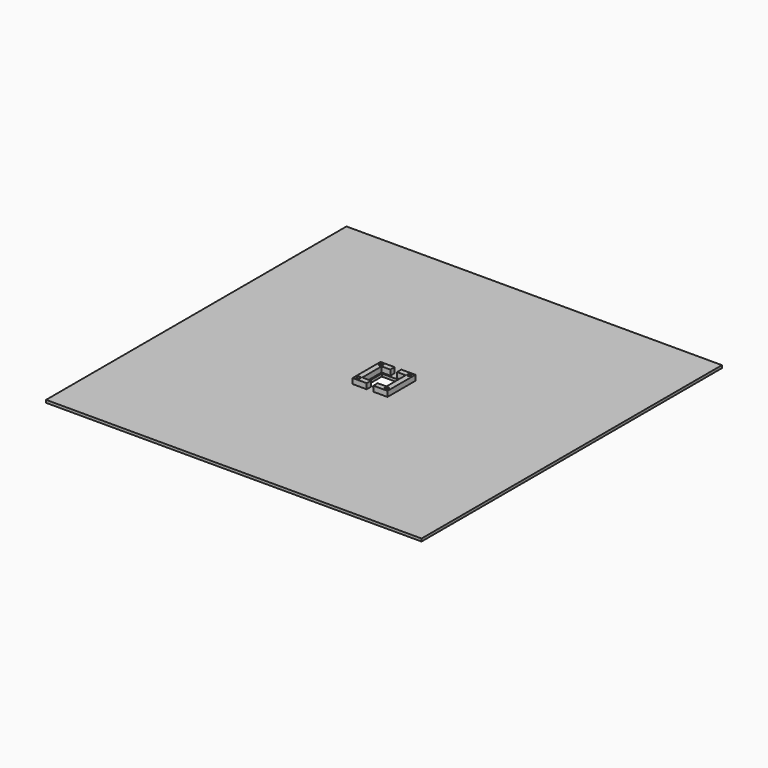
from build123d import *

# Parameters (mm, degrees)
F0_W      = 280
F0_H      = 280
F0_W_2    = 50
F0_H_2    = 50
F1_DEPTH  = 18
F2_DEPTH  = 2
F3_W      = 16
F3_H      = 6
F4_DEPTH  = 115
F5_W      = 280
F5_H      = 280
F5_W_2    = 50
F5_H_2    = 50
F5_W_3    = 16
F5_H_3    = 16
F6_DEPTH  = 2
F7_W      = 26
F7_H      = 26
F7_W_2    = 18
F7_H_2    = 18
F8_DEPTH  = 4
F10_D     = 2.7
F10_DEPTH = 8
F10_TIP   = 0.8111618357
F9_W      = 5
F9_H      = 4
F11_DEPTH = 4


with BuildPart() as f1:
    # F0 (on Top) → F1 (new body)
    with BuildSketch(Plane.XY):
        Rectangle(F0_W, F0_H)
        Rectangle(F0_W_2, F0_H_2, mode=Mode.SUBTRACT)
    extrude(amount=F1_DEPTH)

    # F0 (on Top) → F2 (join)
    with BuildSketch(Plane.XY):
        Rectangle(F0_W, F0_H)
        Rectangle(F0_W_2, F0_H_2, mode=Mode.SUBTRACT)
        Rectangle(F0_W_2, F0_H_2)
    extrude(amount=-F2_DEPTH)

    # F3 (on face) → F4 (cut, through all)
    with BuildSketch(Plane.YZ.offset(140)):
        with Locations((0.0201961273, 3)):
            Rectangle(F3_W, F3_H)
    extrude(amount=-F4_DEPTH, mode=Mode.SUBTRACT)


with BuildPart() as f6:
    # F5 (on face) → F6 (new body)
    with BuildSketch(Plane.XY.offset(18)):
        Rectangle(F5_W, F5_H)
        Rectangle(F5_W_2, F5_H_2, mode=Mode.SUBTRACT)
        Rectangle(F5_W_2, F5_H_2)
        Rectangle(F5_W_3, F5_H_3, mode=Mode.SUBTRACT)
    extrude(amount=F6_DEPTH)

    # F7 (on face) → F8 (join)
    with BuildSketch(Plane.XY.offset(20)):
        Rectangle(F7_W, F7_H)
        Rectangle(F7_W_2, F7_H_2, mode=Mode.SUBTRACT)
    extrude(amount=F8_DEPTH)

    # F10
    with Locations(Plane.XY.offset(24)):
        with Locations((-10.5, 10.5), (10.5, 10.5), (-10.5, -10.5), (10.5, -10.5)):
            Hole(F10_D / 2, depth=F10_DEPTH)
            with Locations((0, 0, -(F10_DEPTH + F10_TIP / 2))):  # 118° drill point
                Cone(0, F10_D / 2, F10_TIP, mode=Mode.SUBTRACT)

    # F9 (on face) → F11 (cut, through all)
    with BuildSketch(Plane.XY.offset(24)):
        with Locations((0, 11)):
            Rectangle(F9_W, F9_H)
        with Locations((0, -11)):
            Rectangle(F9_W, F9_H)
    extrude(amount=-F11_DEPTH, mode=Mode.SUBTRACT)


solid = f6.part
